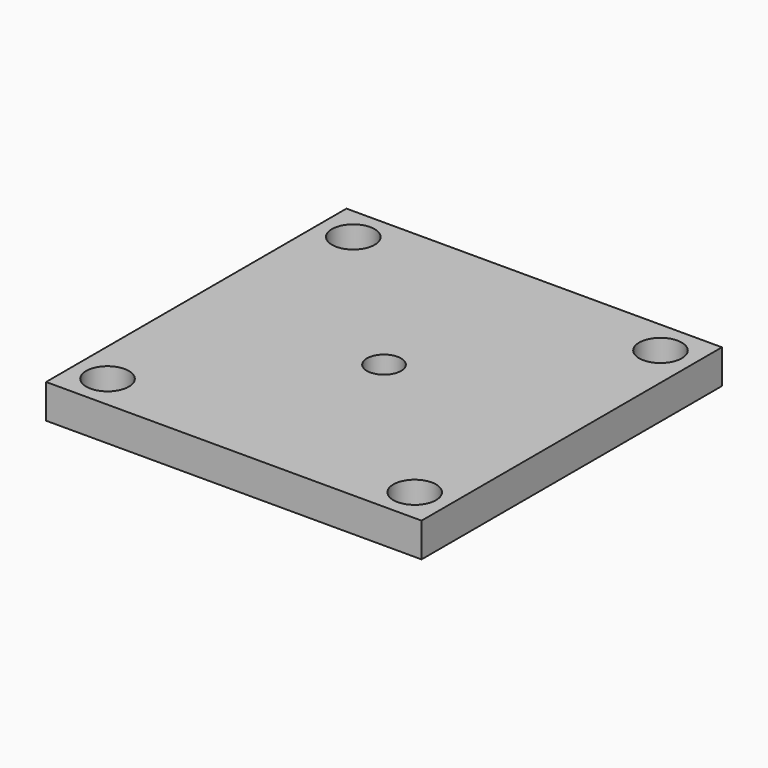
from build123d import *

# Parameters (mm, degrees)
F0_W     = 22
F0_H     = 22
F0_R     = 1.25
F0_R_2   = 1
F1_DEPTH = 2


with BuildPart() as f1:
    # F0 (on Top) → F1 (new body)
    with BuildSketch(Plane.XY):
        with Locations((11, 11)):
            Rectangle(F0_W, F0_H)
        with Locations((2, 2)):
            Circle(F0_R, mode=Mode.SUBTRACT)
        with Locations((20, 2)):
            Circle(F0_R, mode=Mode.SUBTRACT)
        with Locations((2, 20)):
            Circle(F0_R, mode=Mode.SUBTRACT)
        with Locations((11, 11)):
            Circle(F0_R_2, mode=Mode.SUBTRACT)
        with Locations((20, 20)):
            Circle(F0_R, mode=Mode.SUBTRACT)
    extrude(amount=F1_DEPTH)


solid = f1.part
